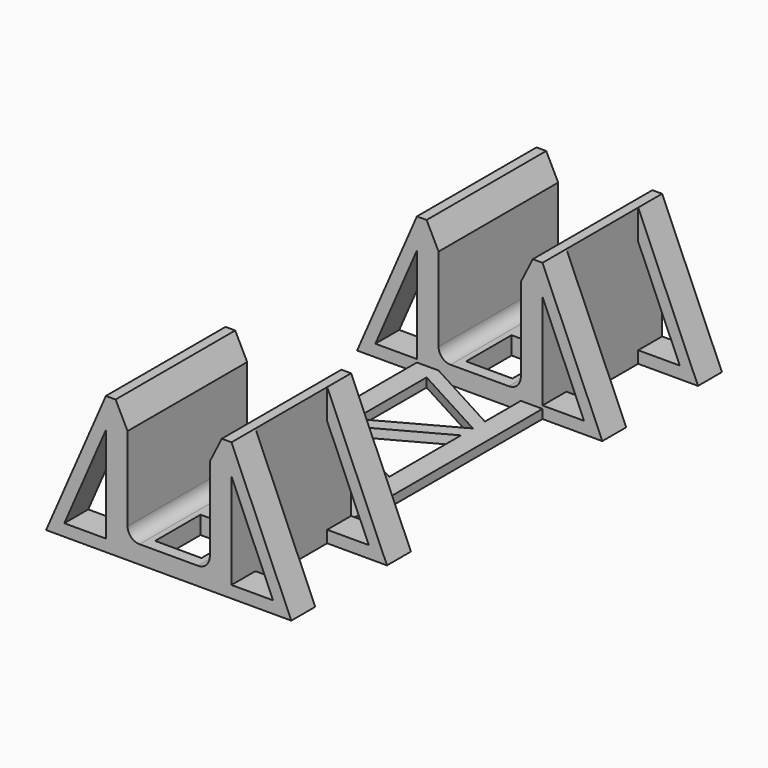
from build123d import *

# Parameters (mm, degrees)
F1_DEPTH  = 114.3
F3_START  = 101.6
F3_DEPTH  = 12.7
F4_START  = 50.8
F4_DEPTH  = 12.7
F6_START  = 3.81
F5_W      = 53.34
F5_H      = 50.8
F6_DEPTH  = 54.61
F8_DEPTH  = 3.81
F9_R      = 5.08
F10_SIZE2 = 10.16
F10_SIZE  = 5.08
F11_SIZE2 = 5.08
F11_SIZE  = 10.16
F12_W     = 19.685
F12_H     = 24.13
F13_DEPTH = 7.62


with BuildPart() as f1:
    # F0 (on Front) → F1 (new body)
    with BuildSketch(Plane.XZ):
        Polygon((0, 58.42), (0, 0), (53.34, 0), (53.34, 58.42), (44.1325, 58.42), (44.1325, 7.62), (26.67, 7.62), (9.2075, 7.62), (9.2075, 58.42), align=None)
    extrude(amount=F1_DEPTH)

    # F2 (on Front) → F3 (join)
    with BuildSketch(Plane.XZ.offset(F3_START)):
        Polygon((78.74, 0), (53.34, 58.42), (53.34, 45.6794248168), (70.9919238334, 5.08), (53.34, 5.08), (53.34, 0), align=None)
        Polygon((-25.4, 0), (0, 0), (0, 5.08), (-17.6519238334, 5.08), (0, 45.6794248168), (0, 58.42), align=None)
    extrude(amount=F3_DEPTH)

    # F2 (on Front) → F4 (join)
    with BuildSketch(Plane.XZ.offset(F4_START)):
        Polygon((78.74, 0), (53.34, 58.42), (53.34, 45.6794248168), (70.9919238334, 5.08), (53.34, 5.08), (53.34, 0), align=None)
        Polygon((-25.4, 0), (0, 0), (0, 5.08), (-17.6519238334, 5.08), (0, 45.6794248168), (0, 58.42), align=None)
    extrude(amount=F4_DEPTH)

    # F5 (on Top) → F6 (cut)
    with BuildSketch(Plane.XY.offset(F6_START)):
        with Locations((26.67, -25.4)):
            Rectangle(F5_W, F5_H)
    extrude(amount=F6_DEPTH, mode=Mode.SUBTRACT)

    # F7 (on face) → F8 (cut, through all)
    with BuildSketch(Plane.XY):
        Polygon((44.1325, -31.75), (9.2075, -50.8), (44.1325, -50.8), align=None)
        Polygon((44.1325, -25.4), (9.2075, -6.35), (9.2075, -44.45), align=None)
        Polygon((44.1325, 0), (9.2075, 0), (44.1325, -19.05), align=None)
    extrude(amount=F8_DEPTH, mode=Mode.SUBTRACT)

    # F9
    f9_edges = [f1.edges().sort_by_distance(p)[0] for p in [
        (9.2075, -82.55, 7.62),
        (44.1325, -82.55, 7.62),
    ]]
    fillet(f9_edges, radius=F9_R)

    # F10
    f10_edges = [f1.edges().sort_by_distance(p)[0] for p in [
        (9.2075, -82.55, 58.42),
    ]]
    f10_side = f1.faces().sort_by_distance((4.60375, -82.55, 58.42))[0]
    chamfer(f10_edges, length=F10_SIZE, length2=F10_SIZE2, reference=f10_side)

    # F11
    f11_edges = [f1.edges().sort_by_distance(p)[0] for p in [
        (44.1325, -82.55, 58.42),
    ]]
    f11_side = f1.faces().sort_by_distance((44.1325, -82.55, 35.56))[0]
    chamfer(f11_edges, length=F11_SIZE, length2=F11_SIZE2, reference=f11_side)

    # F12 (on face) → F13 (cut, through all)
    with BuildSketch(Plane.XY.offset(7.62)):
        with Locations((26.67, -67.945)):
            Rectangle(F12_W, F12_H)
        with Locations((26.67, -97.155)):
            Rectangle(F12_W, F12_H)
        with Locations((26.67, -67.945)):
            Rectangle(F12_W, F12_H)
    extrude(amount=-F13_DEPTH, mode=Mode.SUBTRACT)

    # F14: F1 across plane


with BuildPart() as f1_1:
    add(f1.part)
    add(f1.part.mirror(Plane.XZ))


solid = f1_1.part
